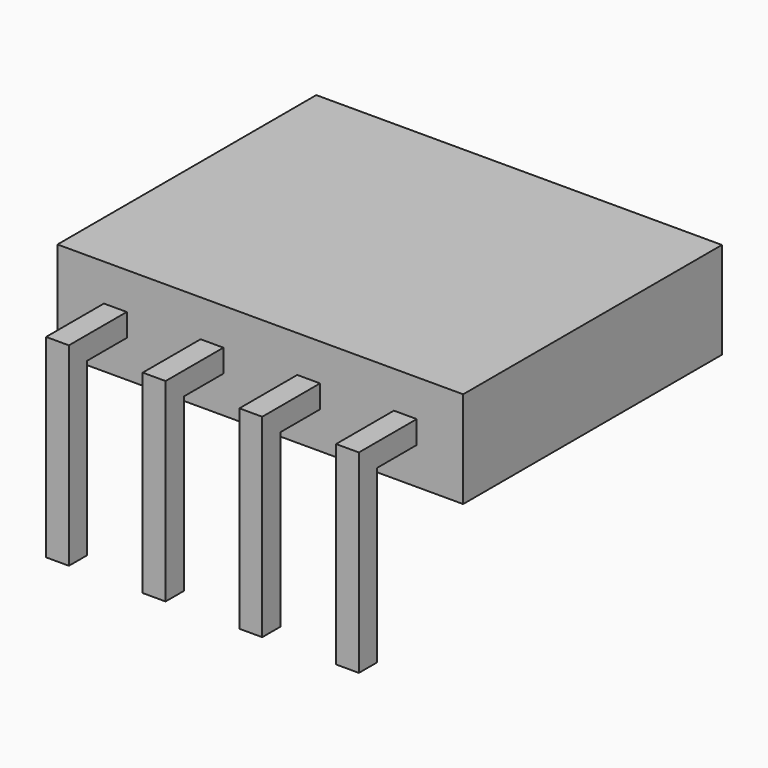
from build123d import *

# Parameters (mm, degrees)
SKETCH_W     = 10.66
SKETCH_H     = 8.5
PAD_DEPTH    = 2.54
SKETCH001_W  = 1
SKETCH001_H  = 1
POCKET_DEPTH = 6.5
SKETCH002_W  = 0.6
SKETCH002_H  = 0.6
PAD001_DEPTH = 1.9
SKETCH003_W  = 0.6
SKETCH003_H  = 0.6
PAD002_DEPTH = 4.5


with BuildPart() as part:
    # Sketch → Pad (new body)
    with BuildSketch(Plane.XY):
        with Locations((0, 4.25)):
            Rectangle(SKETCH_W, SKETCH_H)
    extrude(amount=PAD_DEPTH)

    # Sketch001 → Pocket (cut)
    with BuildSketch(Plane(origin=(0, 8.5, 0), x_dir=(-1, 0, 0), z_dir=(0, 1, 0))):
        with Locations((-3.81, 1.27)):
            Rectangle(SKETCH001_W, SKETCH001_H)
        with Locations((-1.27, 1.27)):
            Rectangle(SKETCH001_W, SKETCH001_H)
        with Locations((1.27, 1.27)):
            Rectangle(SKETCH001_W, SKETCH001_H)
        with Locations((3.81, 1.27)):
            Rectangle(SKETCH001_W, SKETCH001_H)
    extrude(amount=-POCKET_DEPTH, mode=Mode.SUBTRACT)

    # Sketch002 → Pad001 (new body)
    with BuildSketch(Plane.XZ):
        with Locations((-3.81, 1.27)):
            Rectangle(SKETCH002_W, SKETCH002_H)
        with Locations((-1.27, 1.27)):
            Rectangle(SKETCH002_W, SKETCH002_H)
        with Locations((1.27, 1.27)):
            Rectangle(SKETCH002_W, SKETCH002_H)
        with Locations((3.81, 1.27)):
            Rectangle(SKETCH002_W, SKETCH002_H)
    extrude(amount=PAD001_DEPTH)

    # Sketch003 → Pad002 (new body)
    with BuildSketch(Plane(origin=(0, 0, 0.97), x_dir=(1, 0, 0), z_dir=(0, 0, -1))):
        with Locations((-3.81, 1.6)):
            Rectangle(SKETCH003_W, SKETCH003_H)
        with Locations((-1.27, 1.6)):
            Rectangle(SKETCH003_W, SKETCH003_H)
        with Locations((1.27, 1.6)):
            Rectangle(SKETCH003_W, SKETCH003_H)
        with Locations((3.81, 1.6)):
            Rectangle(SKETCH003_W, SKETCH003_H)
    extrude(amount=PAD002_DEPTH)


solid = part.part
